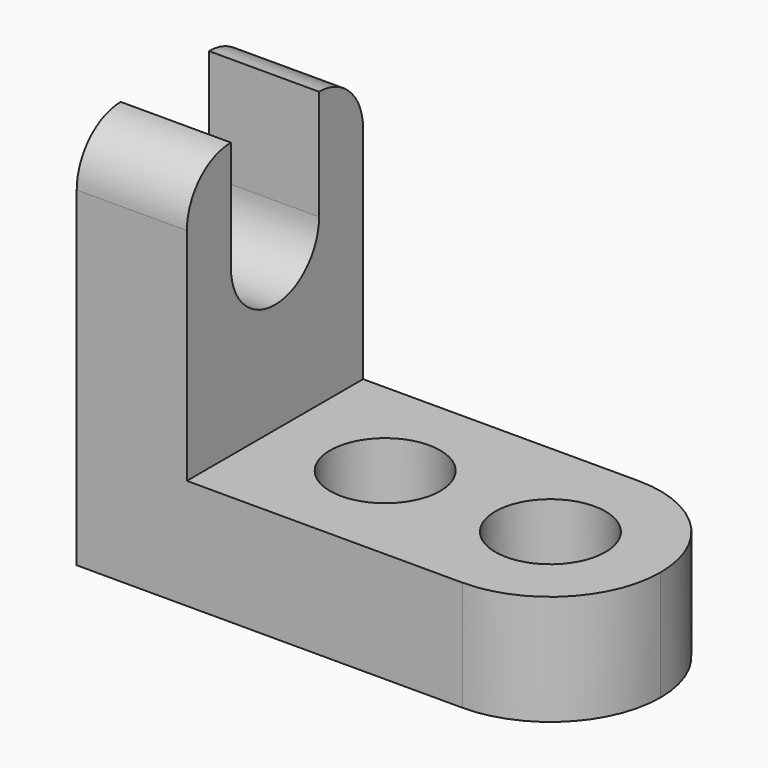
from build123d import *

# Parameters (mm, degrees)
F1_DEPTH = 25.4
F2_R     = 6.35
F3_DEPTH = 25.4
F5_DEPTH = 25.4
F7_DEPTH = 25.4


with BuildPart() as f1:
    # F0 (on Front) → F1 (new body)
    with BuildSketch(Plane.XZ):
        Polygon((0, 44.45), (0, 0), (57.15, 0), (57.15, 12.7), (12.7, 12.7), (12.7, 44.45), align=None)
    extrude(amount=F1_DEPTH)

    # F2 (on face) → F3 (cut)
    with BuildSketch(Plane.XY.offset(12.7)):
        with Locations((25.4, -12.7)):
            Circle(F2_R)
        with Locations((44.45, -12.7)):
            Circle(F2_R)
        with BuildLine():
            ThreePointArc((57.15, -12.7), (53.4302561211, -21.6802561211), (44.45, -25.4))
            Line((44.45, -25.4), (57.15, -25.4))
            Line((57.15, -25.4), (57.15, -12.7))
        make_face()
        with BuildLine():
            ThreePointArc((44.45, 0), (53.4302561211, -3.7197438789), (57.15, -12.7))
            Line((57.15, -12.7), (57.15, 0))
            Line((57.15, 0), (44.45, 0))
        make_face()
    extrude(amount=-F3_DEPTH, mode=Mode.SUBTRACT)

    # F4 (on face) → F5 (cut)
    with BuildSketch(Plane.YZ.offset(12.7)):
        with BuildLine():
            ThreePointArc((-19.05, 31.75), (-12.7, 25.4), (-6.35, 31.75))
            ThreePointArc((-6.35, 31.75), (-12.7, 38.1), (-19.05, 31.75))
        make_face()
        with BuildLine():
            Line((-6.35, 44.45), (-19.05, 44.45))
            Line((-19.05, 44.45), (-19.05, 31.75))
            ThreePointArc((-19.05, 31.75), (-12.7, 38.1), (-6.35, 31.75))
            Line((-6.35, 31.75), (-6.35, 44.45))
        make_face()
    extrude(amount=-F5_DEPTH, mode=Mode.SUBTRACT)

    # F6 (on face) → F7 (cut)
    with BuildSketch(Plane.YZ.offset(12.7)):
        with BuildLine():
            ThreePointArc((-25.4, 38.1), (-23.5401280605, 42.5901280605), (-19.05, 44.45))
            Line((-19.05, 44.45), (-25.4, 44.45))
            Line((-25.4, 44.45), (-25.4, 38.1))
        make_face()
        with BuildLine():
            Line((0, 44.45), (-6.35, 44.45))
            ThreePointArc((-6.35, 44.45), (-1.8598719395, 42.5901280605), (0, 38.1))
            Line((0, 38.1), (0, 44.45))
        make_face()
    extrude(amount=-F7_DEPTH, mode=Mode.SUBTRACT)


solid = f1.part
